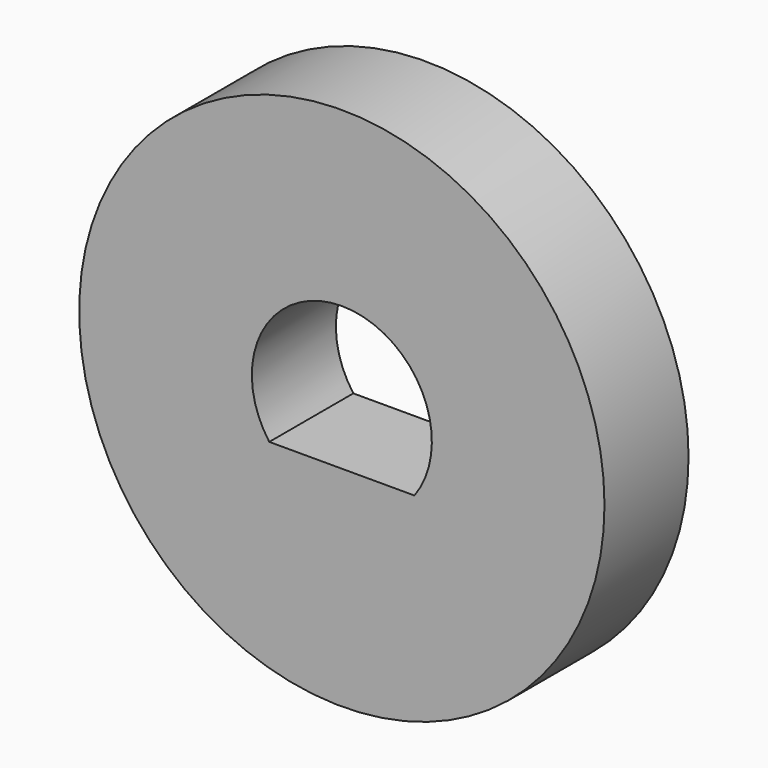
from build123d import *

# Parameters (mm, degrees)
F0_R     = 7.5
F1_DEPTH = 3


with BuildPart() as f1:
    # F0 (on Front) → F1 (new body)
    with BuildSketch(Plane.XZ):
        Circle(F0_R)
        with BuildLine():
            Line((2.072318, -1.52), (0, -1.52))
            Line((0, -1.52), (-2.072318, -1.52))
            ThreePointArc((-2.072318, -1.52), (0, 2.57), (2.072318, -1.52))
        make_face(mode=Mode.SUBTRACT)
    extrude(amount=F1_DEPTH)


solid = f1.part
